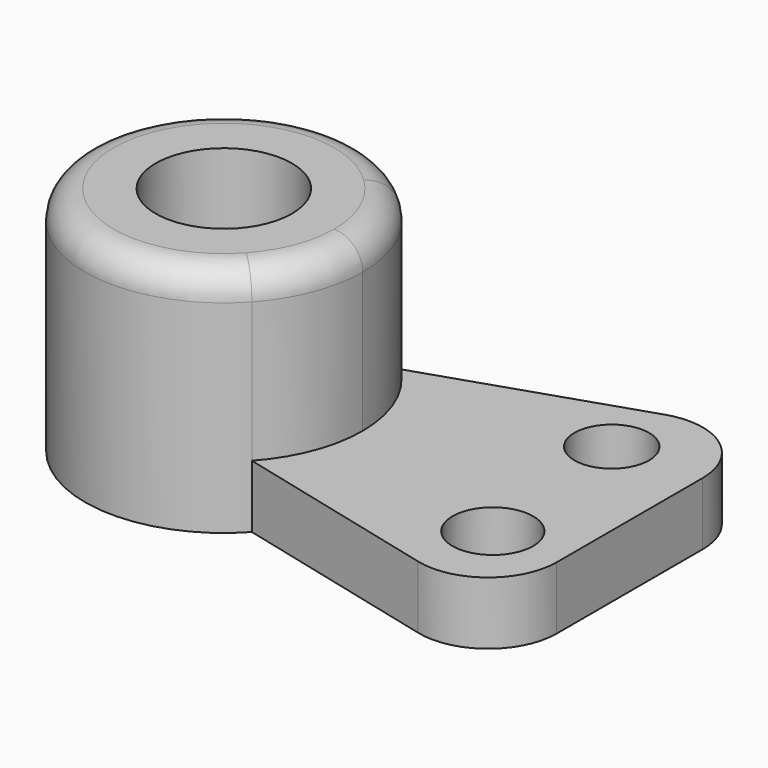
from build123d import *

# Parameters (mm, degrees)
F0_R     = 12.137084
F1_DEPTH = 41.148
F2_R     = 5.08
F0_R_2   = 7.184779
F0_R_3   = 6.643855
F3_DEPTH = 11.176
F4_R     = 12.219886


with BuildPart() as f1:
    # F0 (on Top) → F1 (new body)
    with BuildSketch(Plane.XY):
        with BuildLine():
            ThreePointArc((-26.886796, -16.617896), (-22.126002, -8.907848), (-20.464604, 0))
            ThreePointArc((-20.464604, 0), (-22.430371, 9.658588), (-28.014918, 17.780496))
            ThreePointArc((-28.014918, 17.780496), (-69.87355, -0.809985), (-26.886796, -16.617896))
        make_face()
        with Locations((-45.175716, 0)):
            Circle(F0_R, mode=Mode.SUBTRACT)
    extrude(amount=F1_DEPTH)

    # F2
    f2_edges = [f1.edges().sort_by_distance(p)[0] for p in [
        (-63.464637, 16.617896, 41.148),
    ]]
    fillet(f2_edges, radius=F2_R)

    # F0 (on Top) → F3 (join)
    with BuildSketch(Plane.XY):
        with BuildLine():
            ThreePointArc((-28.014918, 17.780496), (-22.430371, 9.658588), (-20.464604, 0))
            ThreePointArc((-20.464604, 0), (-22.126002, -8.907848), (-26.886796, -16.617896))
            Line((-26.886796, -16.617896), (25.309285, -29.663572))
            Line((25.309285, -29.663572), (25.309285, 35.378572))
            Line((25.309285, 35.378572), (-28.014918, 17.780496))
        make_face()
        with Locations((12.518571, -12.246429)):
            Circle(F0_R_2, mode=Mode.SUBTRACT)
        with Locations((9.525, 17.961429)):
            Circle(F0_R_3, mode=Mode.SUBTRACT)
    extrude(amount=F3_DEPTH)

    # F4
    f4_edges = [f1.edges().sort_by_distance(p)[0] for p in [
        (25.309285, -29.663572, 5.588),
        (25.309285, 35.378572, 5.588),
    ]]
    fillet(f4_edges, radius=F4_R)


solid = f1.part
